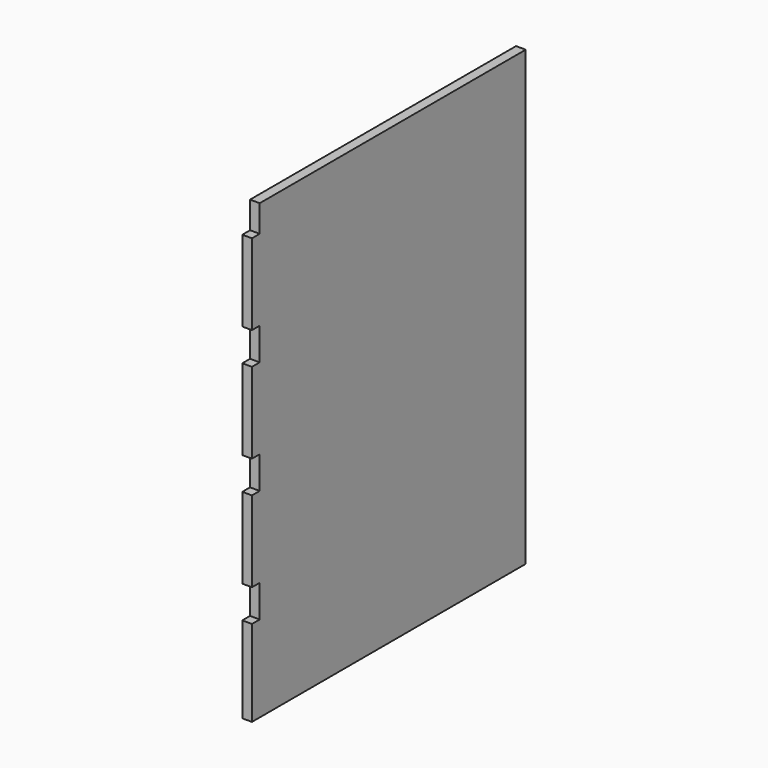
from build123d import *

# Parameters (mm, degrees)
F0_W     = 635
F0_H     = 840
F1_DEPTH = 18
F2_W     = 18
F2_H     = 50
F2_H_2   = 60
F3_DEPTH = 18


with BuildPart() as f1:
    # F0 (on Right) → F1 (new body)
    with BuildSketch(Plane.YZ):
        Rectangle(F0_W, F0_H)
    extrude(amount=F1_DEPTH)

    # F2 (on face) → F3 (cut)
    with BuildSketch(Plane.YZ.offset(18)):
        with Locations((-308.5, 395)):
            Rectangle(F2_W, F2_H)
        with Locations((-308.5, -20)):
            Rectangle(F2_W, F2_H_2)
        with Locations((-308.5, 190)):
            Rectangle(F2_W, F2_H_2)
        with Locations((-308.5, -230)):
            Rectangle(F2_W, F2_H_2)
    extrude(amount=-F3_DEPTH, mode=Mode.SUBTRACT)


solid = f1.part
